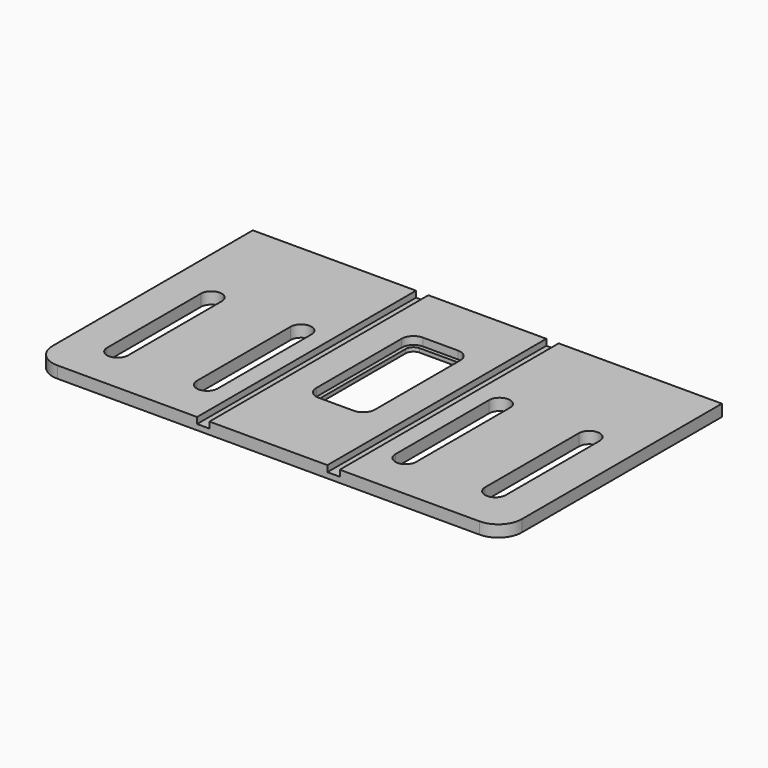
from build123d import *

# Parameters (mm, degrees)
PAD001_DEPTH    = 18
POCKET001_DEPTH = 18
SKETCH004_W     = 19
SKETCH004_H     = 420
POCKET002_DEPTH = 9.5
POCKET004_DEPTH = 12


with BuildPart() as part:
    # Sketch002 → Pad001 (new body)
    with BuildSketch(Plane.XY):
        with BuildLine():
            Line((-360, 420), (360, 420))
            Line((360, 420), (360, 36))
            ThreePointArc((324, 0), (349.455844, 10.544156), (360, 36))
            Line((324, 0), (-324, 0))
            ThreePointArc((-360, 36), (-349.455844, 10.544156), (-324, 0))
            Line((-360, 36), (-360, 420))
        make_face()
    extrude(amount=PAD001_DEPTH)

    # Sketch003 → Pocket001 (cut)
    with BuildSketch(Plane.XY.offset(18)):
        with BuildLine():
            ThreePointArc((-274, 253), (-290, 269), (-306, 253))
            Line((-306, 253), (-306, 73))
            ThreePointArc((-306, 73), (-290, 57), (-274, 73))
            Line((-274, 73), (-274, 253))
        make_face()
        with BuildLine():
            ThreePointArc((-136.333333, 253), (-152.333333, 269), (-168.333333, 253))
            Line((-168.333333, 253), (-168.333333, 73))
            ThreePointArc((-168.333333, 73), (-152.333333, 57), (-136.333333, 73))
            Line((-136.333333, 73), (-136.333333, 253))
        make_face()
        with BuildLine():
            ThreePointArc((306, 253), (290, 269), (274, 253))
            Line((274, 73), (274, 253))
            ThreePointArc((274, 73), (290, 57), (306, 73))
            Line((306, 253), (306, 73))
        make_face()
        with BuildLine():
            ThreePointArc((168.333333, 253), (152.333333, 269), (136.333333, 253))
            Line((136.333333, 73), (136.333333, 253))
            ThreePointArc((136.333333, 73), (152.333333, 57), (168.333333, 73))
            Line((168.333333, 253), (168.333333, 73))
        make_face()
        with BuildLine():
            Line((-27, 324), (27, 324))
            ThreePointArc((39, 312), (35.485281, 320.485281), (27, 324))
            Line((39, 312), (39, 148))
            ThreePointArc((27, 136), (35.485281, 139.514719), (39, 148))
            Line((27, 136), (-27, 136))
            ThreePointArc((-39, 148), (-35.485281, 139.514719), (-27, 136))
            Line((-39, 148), (-39, 312))
            ThreePointArc((-27, 324), (-35.485281, 320.485281), (-39, 312))
        make_face()
    extrude(amount=-POCKET001_DEPTH, mode=Mode.SUBTRACT)

    # Sketch004 → Pocket002 (cut)
    with BuildSketch(Plane.XY.offset(18)):
        with Locations((-100, 210)):
            Rectangle(SKETCH004_W, SKETCH004_H)
        with Locations((100, 210)):
            Rectangle(SKETCH004_W, SKETCH004_H)
    extrude(amount=-POCKET002_DEPTH, mode=Mode.SUBTRACT)

    # Sketch007 → Pocket004 (cut)
    with BuildSketch(Plane.XY.offset(18)):
        with BuildLine():
            Line((-27, 330), (27, 330))
            ThreePointArc((45, 312), (39.727922, 324.727922), (27, 330))
            Line((45, 312), (45, 148))
            ThreePointArc((27, 130), (39.727922, 135.272078), (45, 148))
            Line((27, 130), (-27, 130))
            ThreePointArc((-45, 148), (-39.727922, 135.272078), (-27, 130))
            Line((-45, 148), (-45, 312))
            ThreePointArc((-27, 330), (-39.727922, 324.727922), (-45, 312))
        make_face()
    extrude(amount=-POCKET004_DEPTH, mode=Mode.SUBTRACT)


with BuildPart() as part_1:
    # Body001 placement: moved
    add(part.part.moved(Location((0, 0, 18))))


solid = part_1.part
